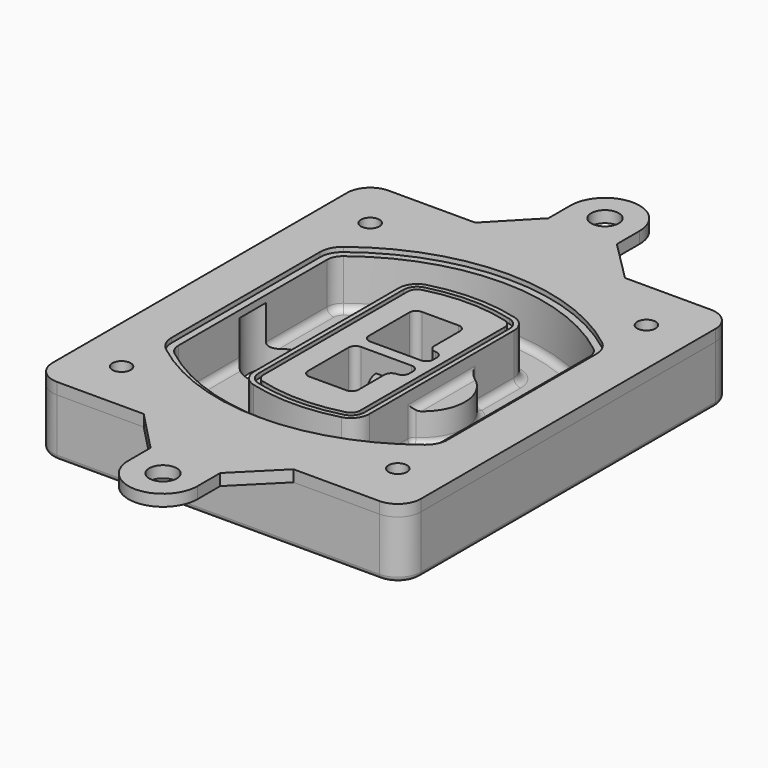
from build123d import *

# Parameters (mm, degrees)
F0_R      = 4
F1_DEPTH  = 25
F2_DEPTH  = 3
F3_DEPTH  = 18
F5_DEPTH  = 21
F6_DEPTH  = 2
F8_DEPTH  = 20
F9_DEPTH  = 16
F10_DEPTH = 25
F7_R      = 6
F7_R_2    = 4
F11_DEPTH = 6
F13_DEPTH = 9
F14_R     = 3
F15_R     = 2
F16_R     = 6
F16_R_2   = 4
F17_DEPTH = 5


with BuildPart() as f1:
    # F0 (on Top) → F1 (new body)
    with BuildSketch(Plane.XY):
        with BuildLine():
            ThreePointArc((-80, -80), (-77.0710678119, -87.0710678119), (-70, -90))
            Line((-70, -90), (70, -90))
            ThreePointArc((70, -90), (77.0710678119, -87.0710678119), (80, -80))
            Line((80, -80), (80, 80))
            ThreePointArc((80, 80), (77.0710678119, 87.0710678119), (70, 90))
            Line((70, 90), (-70, 90))
            ThreePointArc((-70, 90), (-77.0710678119, 87.0710678119), (-80, 80))
            Line((-80, 80), (-80, -80))
        make_face()
        with Locations((-60, -67.5)):
            Circle(F0_R, mode=Mode.SUBTRACT)
        with Locations((60, -67.5)):
            Circle(F0_R, mode=Mode.SUBTRACT)
        with Locations((-60, 67.5)):
            Circle(F0_R, mode=Mode.SUBTRACT)
        with BuildLine():
            ThreePointArc((-64, 40.2934422872), (-62.5820384798, 46.4328484224), (-58.6153846154, 51.3286200352))
            ThreePointArc((-58.6153846154, 51.3286200352), (0, 71.5), (58.6153846154, 51.3286200352))
            ThreePointArc((58.6153846154, 51.3286200352), (62.5820384798, 46.4328484224), (64, 40.2934422872))
            Line((64, 40.2934422872), (64, -40.2934422872))
            ThreePointArc((64, -40.2934422872), (62.5820384798, -46.4328484224), (58.6153846154, -51.3286200352))
            ThreePointArc((58.6153846154, -51.3286200352), (0, -71.5), (-58.6153846154, -51.3286200352))
            ThreePointArc((-58.6153846154, -51.3286200352), (-62.5820384798, -46.4328484224), (-64, -40.2934422872))
            Line((-64, -40.2934422872), (-64, 40.2934422872))
        make_face(mode=Mode.SUBTRACT)
        with Locations((60, 67.5)):
            Circle(F0_R, mode=Mode.SUBTRACT)
        with BuildLine():
            ThreePointArc((58.6153846154, 51.3286200352), (0, 71.5), (-58.6153846154, 51.3286200352))
            ThreePointArc((-58.6153846154, 51.3286200352), (-62.5820384798, 46.4328484224), (-64, 40.2934422872))
            Line((-64, 40.2934422872), (-64, -40.2934422872))
            ThreePointArc((-64, -40.2934422872), (-62.5820384798, -46.4328484224), (-58.6153846154, -51.3286200352))
            ThreePointArc((-58.6153846154, -51.3286200352), (0, -71.5), (58.6153846154, -51.3286200352))
            ThreePointArc((58.6153846154, -51.3286200352), (62.5820384798, -46.4328484224), (64, -40.2934422872))
            Line((64, -40.2934422872), (64, 40.2934422872))
            ThreePointArc((64, 40.2934422872), (62.5820384798, 46.4328484224), (58.6153846154, 51.3286200352))
        make_face()
        with BuildLine():
            Line((-60, -40.2934422872), (-60, 40.2934422872))
            ThreePointArc((-60, 40.2934422872), (-58.9871703427, 44.6787323838), (-56.1538461538, 48.1757121072))
            ThreePointArc((-56.1538461538, 48.1757121072), (0, 67.5), (56.1538461538, 48.1757121072))
            ThreePointArc((56.1538461538, 48.1757121072), (58.9871703427, 44.6787323838), (60, 40.2934422872))
            Line((60, 40.2934422872), (60, -40.2934422872))
            ThreePointArc((60, -40.2934422872), (58.9871703427, -44.6787323838), (56.1538461538, -48.1757121072))
            ThreePointArc((56.1538461538, -48.1757121072), (0, -67.5), (-56.1538461538, -48.1757121072))
            ThreePointArc((-56.1538461538, -48.1757121072), (-58.9871703427, -44.6787323838), (-60, -40.2934422872))
        make_face(mode=Mode.SUBTRACT)
        with BuildLine():
            ThreePointArc((-56.1538461538, 48.1757121072), (-58.9871703427, 44.6787323838), (-60, 40.2934422872))
            Line((-60, 40.2934422872), (-60, -40.2934422872))
            ThreePointArc((-60, -40.2934422872), (-58.9871703427, -44.6787323838), (-56.1538461538, -48.1757121072))
            ThreePointArc((-56.1538461538, -48.1757121072), (0, -67.5), (56.1538461538, -48.1757121072))
            ThreePointArc((56.1538461538, -48.1757121072), (58.9871703427, -44.6787323838), (60, -40.2934422872))
            Line((60, -40.2934422872), (60, 40.2934422872))
            ThreePointArc((60, 40.2934422872), (58.9871703427, 44.6787323838), (56.1538461538, 48.1757121072))
            ThreePointArc((56.1538461538, 48.1757121072), (0, 67.5), (-56.1538461538, 48.1757121072))
        make_face()
        with BuildLine():
            ThreePointArc((54.3076923077, 45.8110311612), (56.2910192399, 43.3631453548), (57, 40.2934422872))
            Line((57, 40.2934422872), (57, -40.2934422872))
            ThreePointArc((57, -40.2934422872), (56.2910192399, -43.3631453548), (54.3076923077, -45.8110311612))
            ThreePointArc((54.3076923077, -45.8110311612), (0, -64.5), (-54.3076923077, -45.8110311612))
            ThreePointArc((-54.3076923077, -45.8110311612), (-56.2910192399, -43.3631453548), (-57, -40.2934422872))
            Line((-57, -40.2934422872), (-57, 40.2934422872))
            ThreePointArc((-57, 40.2934422872), (-56.2910192399, 43.3631453548), (-54.3076923077, 45.8110311612))
            ThreePointArc((-54.3076923077, 45.8110311612), (0, 64.5), (54.3076923077, 45.8110311612))
        make_face(mode=Mode.SUBTRACT)
        with BuildLine():
            Line((57, -40.2934422872), (57, 40.2934422872))
            ThreePointArc((57, 40.2934422872), (56.2910192399, 43.3631453548), (54.3076923077, 45.8110311612))
            ThreePointArc((54.3076923077, 45.8110311612), (0, 64.5), (-54.3076923077, 45.8110311612))
            ThreePointArc((-54.3076923077, 45.8110311612), (-56.2910192399, 43.3631453548), (-57, 40.2934422872))
            Line((-57, 40.2934422872), (-57, -40.2934422872))
            ThreePointArc((-57, -40.2934422872), (-56.2910192399, -43.3631453548), (-54.3076923077, -45.8110311612))
            ThreePointArc((-54.3076923077, -45.8110311612), (0, -64.5), (54.3076923077, -45.8110311612))
            ThreePointArc((54.3076923077, -45.8110311612), (56.2910192399, -43.3631453548), (57, -40.2934422872))
        make_face()
    extrude(amount=-F1_DEPTH)

    # F0 (on Top) → F2 (join)
    with BuildSketch(Plane.XY):
        with BuildLine():
            ThreePointArc((-56.1538461538, 48.1757121072), (-58.9871703427, 44.6787323838), (-60, 40.2934422872))
            Line((-60, 40.2934422872), (-60, -40.2934422872))
            ThreePointArc((-60, -40.2934422872), (-58.9871703427, -44.6787323838), (-56.1538461538, -48.1757121072))
            ThreePointArc((-56.1538461538, -48.1757121072), (0, -67.5), (56.1538461538, -48.1757121072))
            ThreePointArc((56.1538461538, -48.1757121072), (58.9871703427, -44.6787323838), (60, -40.2934422872))
            Line((60, -40.2934422872), (60, 40.2934422872))
            ThreePointArc((60, 40.2934422872), (58.9871703427, 44.6787323838), (56.1538461538, 48.1757121072))
            ThreePointArc((56.1538461538, 48.1757121072), (0, 67.5), (-56.1538461538, 48.1757121072))
        make_face()
        with BuildLine():
            ThreePointArc((54.3076923077, 45.8110311612), (56.2910192399, 43.3631453548), (57, 40.2934422872))
            Line((57, 40.2934422872), (57, -40.2934422872))
            ThreePointArc((57, -40.2934422872), (56.2910192399, -43.3631453548), (54.3076923077, -45.8110311612))
            ThreePointArc((54.3076923077, -45.8110311612), (0, -64.5), (-54.3076923077, -45.8110311612))
            ThreePointArc((-54.3076923077, -45.8110311612), (-56.2910192399, -43.3631453548), (-57, -40.2934422872))
            Line((-57, -40.2934422872), (-57, 40.2934422872))
            ThreePointArc((-57, 40.2934422872), (-56.2910192399, 43.3631453548), (-54.3076923077, 45.8110311612))
            ThreePointArc((-54.3076923077, 45.8110311612), (0, 64.5), (54.3076923077, 45.8110311612))
        make_face(mode=Mode.SUBTRACT)
    extrude(amount=F2_DEPTH)

    # F0 (on Top) → F3 (cut)
    with BuildSketch(Plane.XY):
        with BuildLine():
            Line((57, -40.2934422872), (57, 40.2934422872))
            ThreePointArc((57, 40.2934422872), (56.2910192399, 43.3631453548), (54.3076923077, 45.8110311612))
            ThreePointArc((54.3076923077, 45.8110311612), (0, 64.5), (-54.3076923077, 45.8110311612))
            ThreePointArc((-54.3076923077, 45.8110311612), (-56.2910192399, 43.3631453548), (-57, 40.2934422872))
            Line((-57, 40.2934422872), (-57, -40.2934422872))
            ThreePointArc((-57, -40.2934422872), (-56.2910192399, -43.3631453548), (-54.3076923077, -45.8110311612))
            ThreePointArc((-54.3076923077, -45.8110311612), (0, -64.5), (54.3076923077, -45.8110311612))
            ThreePointArc((54.3076923077, -45.8110311612), (56.2910192399, -43.3631453548), (57, -40.2934422872))
        make_face()
    extrude(amount=-F3_DEPTH, mode=Mode.SUBTRACT)

    # F4 (on face) → F5 (join, through all)
    with BuildSketch(Plane.XY.offset(3)):
        with BuildLine():
            ThreePointArc((-25, -39.2465276821), (-23.3511545998, -44.1109737193), (-19.0842911877, -46.9702398883))
            ThreePointArc((-19.0842911877, -46.9702398883), (0, -49.5), (19.0842911877, -46.9702398883))
            ThreePointArc((19.0842911877, -46.9702398883), (23.3511545998, -44.1109737193), (25, -39.2465276821))
            Line((25, -39.2465276821), (25, 39.2465276821))
            ThreePointArc((25, 39.2465276821), (23.3511545998, 44.1109737193), (19.0842911877, 46.9702398883))
            ThreePointArc((19.0842911877, 46.9702398883), (0, 49.5), (-19.0842911877, 46.9702398883))
            ThreePointArc((-19.0842911877, 46.9702398883), (-23.3511545998, 44.1109737193), (-25, 39.2465276821))
            Line((-25, 39.2465276821), (-25, -39.2465276821))
        make_face()
        with BuildLine():
            ThreePointArc((18.5632183908, 45.0393118368), (21.7633659499, 42.89486221), (23, 39.2465276821))
            Line((23, 39.2465276821), (23, -39.2465276821))
            ThreePointArc((23, -39.2465276821), (21.7633659499, -42.89486221), (18.5632183908, -45.0393118368))
            ThreePointArc((18.5632183908, -45.0393118368), (0, -47.5), (-18.5632183908, -45.0393118368))
            ThreePointArc((-18.5632183908, -45.0393118368), (-21.7633659499, -42.89486221), (-23, -39.2465276821))
            Line((-23, -39.2465276821), (-23, 39.2465276821))
            ThreePointArc((-23, 39.2465276821), (-21.7633659499, 42.89486221), (-18.5632183908, 45.0393118368))
            ThreePointArc((-18.5632183908, 45.0393118368), (0, 47.5), (18.5632183908, 45.0393118368))
        make_face(mode=Mode.SUBTRACT)
        with BuildLine():
            Line((23, -39.2465276821), (23, 39.2465276821))
            ThreePointArc((23, 39.2465276821), (21.7633659499, 42.89486221), (18.5632183908, 45.0393118368))
            ThreePointArc((18.5632183908, 45.0393118368), (0, 47.5), (-18.5632183908, 45.0393118368))
            ThreePointArc((-18.5632183908, 45.0393118368), (-21.7633659499, 42.89486221), (-23, 39.2465276821))
            Line((-23, 39.2465276821), (-23, -39.2465276821))
            ThreePointArc((-23, -39.2465276821), (-21.7633659499, -42.89486221), (-18.5632183908, -45.0393118368))
            ThreePointArc((-18.5632183908, -45.0393118368), (0, -47.5), (18.5632183908, -45.0393118368))
            ThreePointArc((18.5632183908, -45.0393118368), (21.7633659499, -42.89486221), (23, -39.2465276821))
        make_face()
        with BuildLine():
            ThreePointArc((18.0421455939, 43.1083837852), (20.1755772999, 41.6787507007), (21, 39.2465276821))
            Line((21, 39.2465276821), (21, -39.2465276821))
            ThreePointArc((21, -39.2465276821), (20.1755772999, -41.6787507007), (18.0421455939, -43.1083837852))
            ThreePointArc((18.0421455939, -43.1083837852), (0, -45.5), (-18.0421455939, -43.1083837852))
            ThreePointArc((-18.0421455939, -43.1083837852), (-20.1755772999, -41.6787507007), (-21, -39.2465276821))
            Line((-21, -39.2465276821), (-21, 39.2465276821))
            ThreePointArc((-21, 39.2465276821), (-20.1755772999, 41.6787507007), (-18.0421455939, 43.1083837852))
            ThreePointArc((-18.0421455939, 43.1083837852), (0, 45.5), (18.0421455939, 43.1083837852))
        make_face(mode=Mode.SUBTRACT)
        with BuildLine():
            Line((21, -39.2465276821), (21, 39.2465276821))
            ThreePointArc((21, 39.2465276821), (20.1755772999, 41.6787507007), (18.0421455939, 43.1083837852))
            ThreePointArc((18.0421455939, 43.1083837852), (0, 45.5), (-18.0421455939, 43.1083837852))
            ThreePointArc((-18.0421455939, 43.1083837852), (-20.1755772999, 41.6787507007), (-21, 39.2465276821))
            Line((-21, 39.2465276821), (-21, -39.2465276821))
            ThreePointArc((-21, -39.2465276821), (-20.1755772999, -41.6787507007), (-18.0421455939, -43.1083837852))
            ThreePointArc((-18.0421455939, -43.1083837852), (0, -45.5), (18.0421455939, -43.1083837852))
            ThreePointArc((18.0421455939, -43.1083837852), (20.1755772999, -41.6787507007), (21, -39.2465276821))
        make_face()
        with BuildLine():
            Line((-8, -2.5), (14, -2.5))
            ThreePointArc((14, -2.5), (16.1213203436, -3.3786796564), (17, -5.5))
            Line((17, -5.5), (17, -7.5))
            ThreePointArc((17, -7.5), (16.1213203436, -9.6213203436), (14, -10.5))
            ThreePointArc((14, -10.5), (11.8786796564, -11.3786796564), (11, -13.5))
            Line((11, -13.5), (11, -27.5))
            ThreePointArc((11, -27.5), (10.1213203436, -29.6213203436), (8, -30.5))
            Line((8, -30.5), (-8, -30.5))
            ThreePointArc((-8, -30.5), (-10.1213203436, -29.6213203436), (-11, -27.5))
            Line((-11, -27.5), (-11, -5.5))
            ThreePointArc((-11, -5.5), (-10.1213203436, -3.3786796564), (-8, -2.5))
        make_face(mode=Mode.SUBTRACT)
        with BuildLine():
            ThreePointArc((-8, 2.5), (-10.1213203436, 3.3786796564), (-11, 5.5))
            Line((-11, 5.5), (-11, 27.5))
            ThreePointArc((-11, 27.5), (-10.1213203436, 29.6213203436), (-8, 30.5))
            Line((-8, 30.5), (8, 30.5))
            ThreePointArc((8, 30.5), (10.1213203436, 29.6213203436), (11, 27.5))
            Line((11, 27.5), (11, 13.5))
            ThreePointArc((11, 13.5), (11.8786796564, 11.3786796564), (14, 10.5))
            ThreePointArc((14, 10.5), (16.1213203436, 9.6213203436), (17, 7.5))
            Line((17, 7.5), (17, 5.5))
            ThreePointArc((17, 5.5), (16.1213203436, 3.3786796564), (14, 2.5))
            Line((14, 2.5), (-8, 2.5))
        make_face(mode=Mode.SUBTRACT)
    extrude(amount=-F5_DEPTH)

    # F4 (on face) → F6 (cut)
    with BuildSketch(Plane.XY.offset(3)):
        with BuildLine():
            Line((23, -39.2465276821), (23, 39.2465276821))
            ThreePointArc((23, 39.2465276821), (21.7633659499, 42.89486221), (18.5632183908, 45.0393118368))
            ThreePointArc((18.5632183908, 45.0393118368), (0, 47.5), (-18.5632183908, 45.0393118368))
            ThreePointArc((-18.5632183908, 45.0393118368), (-21.7633659499, 42.89486221), (-23, 39.2465276821))
            Line((-23, 39.2465276821), (-23, -39.2465276821))
            ThreePointArc((-23, -39.2465276821), (-21.7633659499, -42.89486221), (-18.5632183908, -45.0393118368))
            ThreePointArc((-18.5632183908, -45.0393118368), (0, -47.5), (18.5632183908, -45.0393118368))
            ThreePointArc((18.5632183908, -45.0393118368), (21.7633659499, -42.89486221), (23, -39.2465276821))
        make_face()
        with BuildLine():
            ThreePointArc((18.0421455939, 43.1083837852), (20.1755772999, 41.6787507007), (21, 39.2465276821))
            Line((21, 39.2465276821), (21, -39.2465276821))
            ThreePointArc((21, -39.2465276821), (20.1755772999, -41.6787507007), (18.0421455939, -43.1083837852))
            ThreePointArc((18.0421455939, -43.1083837852), (0, -45.5), (-18.0421455939, -43.1083837852))
            ThreePointArc((-18.0421455939, -43.1083837852), (-20.1755772999, -41.6787507007), (-21, -39.2465276821))
            Line((-21, -39.2465276821), (-21, 39.2465276821))
            ThreePointArc((-21, 39.2465276821), (-20.1755772999, 41.6787507007), (-18.0421455939, 43.1083837852))
            ThreePointArc((-18.0421455939, 43.1083837852), (0, 45.5), (18.0421455939, 43.1083837852))
        make_face(mode=Mode.SUBTRACT)
    extrude(amount=-F6_DEPTH, mode=Mode.SUBTRACT)

    # F7 (on face) → F8 (join)
    with BuildSketch(Plane(origin=(0, 0, -25), x_dir=(1, 0, 0), z_dir=(0, 0, -1))):
        with BuildLine():
            ThreePointArc((3.28842436, 0), (16.7567035675, 13.4682792075), (30.224982775, 0))
            Line((30.224982775, 0), (35.224982775, 0))
            ThreePointArc((35.224982775, 0), (16.7567035675, 18.4682792075), (-1.71157564, 0))
            Line((-1.71157564, 0), (3.28842436, 0))
        make_face()
        with BuildLine():
            Line((3.28842436, 0), (30.224982775, 0))
            ThreePointArc((30.224982775, 0), (16.7567035675, 13.4682792075), (3.28842436, 0))
        make_face()
        with BuildLine():
            ThreePointArc((3.28842436, 0), (16.7567035675, -13.4682792075), (30.224982775, 0))
            Line((30.224982775, 0), (3.28842436, 0))
        make_face()
        with BuildLine():
            Line((35.224982775, 0), (30.224982775, 0))
            ThreePointArc((30.224982775, 0), (16.7567035675, -13.4682792075), (3.28842436, 0))
            Line((3.28842436, 0), (-1.71157564, 0))
            ThreePointArc((-1.71157564, 0), (16.7567035675, -18.4682792075), (35.224982775, 0))
        make_face()
    extrude(amount=-F8_DEPTH)

    # F7 (on face) → F9 (cut)
    with BuildSketch(Plane(origin=(0, 0, -25), x_dir=(1, 0, 0), z_dir=(0, 0, -1))):
        with BuildLine():
            Line((3.28842436, 0), (30.224982775, 0))
            ThreePointArc((30.224982775, 0), (16.7567035675, 13.4682792075), (3.28842436, 0))
        make_face()
        with BuildLine():
            ThreePointArc((3.28842436, 0), (16.7567035675, -13.4682792075), (30.224982775, 0))
            Line((30.224982775, 0), (3.28842436, 0))
        make_face()
    extrude(amount=-F9_DEPTH, mode=Mode.SUBTRACT)

    # F7 (on face) → F10 (cut)
    with BuildSketch(Plane(origin=(0, 0, -25), x_dir=(1, 0, 0), z_dir=(0, 0, -1))):
        with BuildLine():
            Line((-59.0318229325, 0), (-32.0952645175, 0))
            ThreePointArc((-32.0952645175, 0), (-45.563543725, 13.4682792075), (-59.0318229325, 0))
        make_face()
        with BuildLine():
            ThreePointArc((-59.0318229325, 0), (-45.563543725, -13.4682792075), (-32.0952645175, 0))
            Line((-32.0952645175, 0), (-59.0318229325, 0))
        make_face()
    extrude(amount=-F10_DEPTH, mode=Mode.SUBTRACT)

    # F7 (on face) → F11 (cut)
    with BuildSketch(Plane(origin=(0, 0, -25), x_dir=(1, 0, 0), z_dir=(0, 0, -1))):
        with Locations((60, -67.5)):
            Circle(F7_R)
        with Locations((60, -67.5)):
            Circle(F7_R_2, mode=Mode.SUBTRACT)
        with Locations((60, -67.5)):
            Circle(F7_R)
        with Locations((60, -67.5)):
            Circle(F7_R_2, mode=Mode.SUBTRACT)
        with Locations((-60, -67.5)):
            Circle(F7_R)
        with Locations((-60, -67.5)):
            Circle(F7_R_2, mode=Mode.SUBTRACT)
        with Locations((-60, -67.5)):
            Circle(F7_R)
        with Locations((-60, -67.5)):
            Circle(F7_R_2, mode=Mode.SUBTRACT)
        with Locations((-60, 67.5)):
            Circle(F7_R)
        with Locations((-60, 67.5)):
            Circle(F7_R_2, mode=Mode.SUBTRACT)
        with Locations((-60, 67.5)):
            Circle(F7_R)
        with Locations((-60, 67.5)):
            Circle(F7_R_2, mode=Mode.SUBTRACT)
        with Locations((60, 67.5)):
            Circle(F7_R)
        with Locations((60, 67.5)):
            Circle(F7_R_2, mode=Mode.SUBTRACT)
        with Locations((60, 67.5)):
            Circle(F7_R)
        with Locations((60, 67.5)):
            Circle(F7_R_2, mode=Mode.SUBTRACT)
    extrude(amount=-F11_DEPTH, mode=Mode.SUBTRACT)

    # F12 (on face) → F13 (cut, through all)
    with BuildSketch(Plane(origin=(0, 0, -9), x_dir=(1, 0, 0), z_dir=(0, 0, -1))):
        with BuildLine():
            Line((11, 13.5), (11, 17.5481537753))
            ThreePointArc((11, 17.5481537753), (2.5696536419, 11.8239143813), (-1.5415842455, 2.5))
            Line((-1.5415842455, 2.5), (3.5224848595, 2.5))
            ThreePointArc((3.5224848595, 2.5), (6.1857188154, 8.3455872281), (11.2536447004, 12.2927168648))
            ThreePointArc((11.2536447004, 12.2927168648), (11.0640958889, 12.8831798879), (11, 13.5))
        make_face()
        with BuildLine():
            ThreePointArc((11.2536447004, -12.2927168648), (6.1857188154, -8.3455872281), (3.5224848595, -2.5))
            Line((3.5224848595, -2.5), (-1.5415842455, -2.5))
            ThreePointArc((-1.5415842455, -2.5), (2.5696536419, -11.8239143813), (11, -17.5481537753))
            Line((11, -17.5481537753), (11, -13.5))
            ThreePointArc((11, -13.5), (11.0640958889, -12.8831798879), (11.2536447004, -12.2927168648))
        make_face()
        with BuildLine():
            ThreePointArc((11.2536447004, 12.2927168648), (6.1857188154, 8.3455872281), (3.5224848595, 2.5))
            Line((3.5224848595, 2.5), (14, 2.5))
            ThreePointArc((14, 2.5), (16.1213203436, 3.3786796564), (17, 5.5))
            Line((17, 5.5), (17, 7.5))
            ThreePointArc((17, 7.5), (16.1213203436, 9.6213203436), (14, 10.5))
            ThreePointArc((14, 10.5), (12.3601599782, 10.9878446101), (11.2536447004, 12.2927168648))
        make_face()
        with BuildLine():
            Line((14, -2.5), (3.5224848595, -2.5))
            ThreePointArc((3.5224848595, -2.5), (6.1857188154, -8.3455872281), (11.2536447004, -12.2927168648))
            ThreePointArc((11.2536447004, -12.2927168648), (12.3601599782, -10.9878446101), (14, -10.5))
            ThreePointArc((14, -10.5), (16.1213203436, -9.6213203436), (17, -7.5))
            Line((17, -7.5), (17, -5.5))
            ThreePointArc((17, -5.5), (16.1213203436, -3.3786796564), (14, -2.5))
        make_face()
    extrude(amount=F13_DEPTH, mode=Mode.SUBTRACT)

    # F14
    f14_edges = [f1.edges().sort_by_distance(p)[0] for p in [
        (-57, -23.703476, -18),
        (-57, 23.703476, -18),
        (25, 0, -5),
        (25, 16.526506, -11.5),
        (25, -16.526506, -11.5),
        (25, -27.886517, -18),
        (35.224983, 0, -18),
    ]]
    fillet(f14_edges, radius=F14_R)

    # F15
    f15_edges = [f1.edges().sort_by_distance(p)[0] for p in [
        (0, -90, -25),
    ]]
    fillet(f15_edges, radius=F15_R)


with BuildPart() as f17:
    # F16 (on face) → F17 (new body)
    with BuildSketch(Plane.XY):
        with BuildLine():
            Line((15, 107.6776695297), (15, 120))
            ThreePointArc((15, 120), (0, 135), (-15, 120))
            Line((-15, 120), (-15, 108))
            Line((-15, 108), (-32.3493515729, 90))
            Line((-32.3493515729, 90), (32.6776695297, 90))
            Line((32.6776695297, 90), (15, 107.6776695297))
        make_face()
        with Locations((0, 120)):
            Circle(F16_R, mode=Mode.SUBTRACT)
        with BuildLine():
            Line((70, 90), (32.6776695297, 90))
            Line((32.6776695297, 90), (-32.3493515729, 90))
            Line((-32.3493515729, 90), (-70, 90))
            ThreePointArc((-70, 90), (-77.0710678119, 87.0710678119), (-80, 80))
            Line((-80, 80), (-80, -80))
            ThreePointArc((-80, -80), (-77.0710678119, -87.0710678119), (-70, -90))
            Line((-70, -90), (-32.3493515729, -90))
            Line((-32.3493515729, -90), (32.6776695297, -90))
            Line((32.6776695297, -90), (70, -90))
            ThreePointArc((70, -90), (77.0710678119, -87.0710678119), (80, -80))
            Line((80, -80), (80, 80))
            ThreePointArc((80, 80), (77.0710678119, 87.0710678119), (70, 90))
        make_face()
        with Locations((-60, -67.5)):
            Circle(F16_R_2, mode=Mode.SUBTRACT)
        with Locations((60, -67.5)):
            Circle(F16_R_2, mode=Mode.SUBTRACT)
        with Locations((-60, 67.5)):
            Circle(F16_R_2, mode=Mode.SUBTRACT)
        with BuildLine():
            ThreePointArc((-60, 40.2934422872), (-58.9871703427, 44.6787323838), (-56.1538461538, 48.1757121072))
            ThreePointArc((-56.1538461538, 48.1757121072), (0, 67.5), (56.1538461538, 48.1757121072))
            ThreePointArc((56.1538461538, 48.1757121072), (58.9871703427, 44.6787323838), (60, 40.2934422872))
            Line((60, 40.2934422872), (60, -40.2934422872))
            ThreePointArc((60, -40.2934422872), (58.9871703427, -44.6787323838), (56.1538461538, -48.1757121072))
            ThreePointArc((56.1538461538, -48.1757121072), (0, -67.5), (-56.1538461538, -48.1757121072))
            ThreePointArc((-56.1538461538, -48.1757121072), (-58.9871703427, -44.6787323838), (-60, -40.2934422872))
            Line((-60, -40.2934422872), (-60, 40.2934422872))
        make_face(mode=Mode.SUBTRACT)
        with Locations((60, 67.5)):
            Circle(F16_R_2, mode=Mode.SUBTRACT)
        with BuildLine():
            Line((15, -107.6776695297), (32.6776695297, -90))
            Line((32.6776695297, -90), (-32.3493515729, -90))
            Line((-32.3493515729, -90), (-15, -108))
            Line((-15, -108), (-15, -120))
            ThreePointArc((-15, -120), (0, -135), (15, -120))
            Line((15, -120), (15, -107.6776695297))
        make_face()
        with Locations((0, -120)):
            Circle(F16_R, mode=Mode.SUBTRACT)
    extrude(amount=F17_DEPTH)


solid = Compound([f1.part, f17.part])
